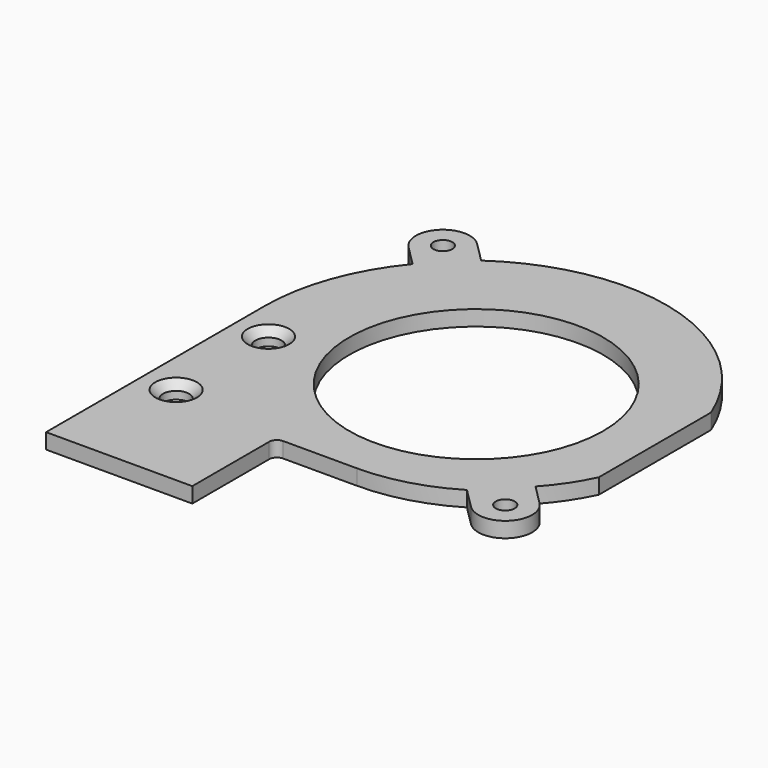
from build123d import *

# Parameters (mm, degrees)
SKETCH_R     = 16.5
SKETCH_R_2   = 1.23
SKETCH_R_3   = 1.7
PAD_DEPTH    = 2
SKETCH001_R  = 1.7
POCKET_DEPTH = 5
CHAMFER_SIZE = 1


with BuildPart() as part:
    # Sketch → Pad (new body)
    with BuildSketch(Plane.XY):
        with BuildLine():
            Line((-27.5, 0), (-27.5, -35.5))
            Line((-27.5, -35.5), (-8.5, -35.5))
            Line((-8.5, -35.5), (-8.5, -23))
            ThreePointArc((-7.5, -22), (-8.207107, -22.292893), (-8.5, -23))
            Line((-7.5, -22), (2.1, -22))
            ThreePointArc((2.1, -22), (8.168554, -21.170056), (13.791427, -18.741175))
            Line((13.791427, -18.741175), (16.407722, -21.35747))
            ThreePointArc((16.407722, -21.35747), (21.357469, -21.357469), (21.357469, -16.407722))
            Line((18.741174, -13.791427), (21.357469, -16.407722))
            ThreePointArc((18.741174, -13.791427), (20.833989, -11.138758), (22.5, -8.199211))
            Line((22.5, 10.020789), (22.5, -8.199211))
            ThreePointArc((22.5, 10.020789), (13.615171, 21.411813), (0, 26.241175))
            ThreePointArc((0, 26.241175), (-8.686669, 25.282425), (-16.578809, 21.528557))
            Line((-19.195104, 24.144852), (-16.578809, 21.528557))
            ThreePointArc((-19.195104, 24.144852), (-24.144852, 24.144852), (-24.144852, 19.195104))
            Line((-24.144852, 19.195104), (-21.528557, 16.578809))
            ThreePointArc((-21.528557, 16.578809), (-25.961628, 8.810719), (-27.5, 0))
        make_face()
        Circle(SKETCH_R, mode=Mode.SUBTRACT)
        with Locations((18.882595, -18.882595)):
            Circle(SKETCH_R_2, mode=Mode.SUBTRACT)
        with Locations((-21.669978, 21.669978)):
            Circle(SKETCH_R_2, mode=Mode.SUBTRACT)
        with Locations((-23, -20)):
            Circle(SKETCH_R_3, mode=Mode.SUBTRACT)
    extrude(amount=PAD_DEPTH)

    # Sketch001 → Pocket (cut)
    with BuildSketch(Plane.XY.offset(2)):
        with Locations((-23, -5)):
            Circle(SKETCH001_R)
    extrude(amount=-POCKET_DEPTH, mode=Mode.SUBTRACT)

    # Chamfer
    chamfer_edges = [part.edges().sort_by_distance(p)[0] for p in [
        (-24.7, -20, 2),
        (-24.7, -5, 2),
    ]]
    chamfer(chamfer_edges, length=CHAMFER_SIZE)


solid = part.part
